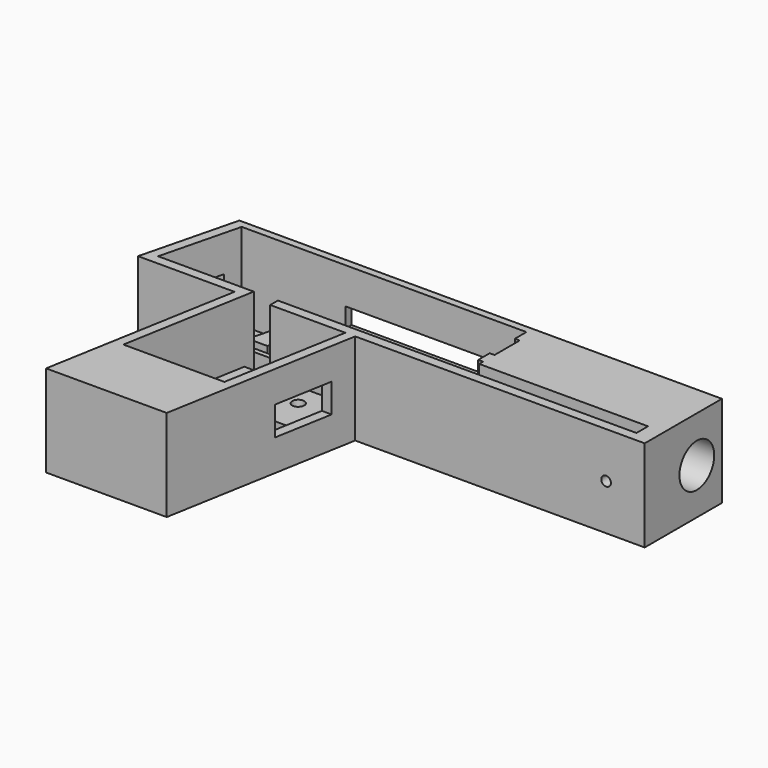
from build123d import *

# Parameters (mm, degrees)
F1_DEPTH  = 9.5
F3_DEPTH  = 18
F4_R      = 4.5
F5_DEPTH  = 40
F6_W      = 10.7216464161
F6_H      = 8
F7_DEPTH  = 2
F8_R      = 1
F9_DEPTH  = 5
F8_W      = 1
F8_H      = 3
F10_DEPTH = 18
F11_DEPTH = 18
F12_R     = 1
F13_DEPTH = 6.9
F15_DEPTH = 3
F16_R     = 1.25
F17_DEPTH = 5
F18_DEPTH = 25


with BuildPart() as f1:
    # F0 (on Top) → F1 (new body, symmetric)
    with BuildSketch(Plane.XY):
        Polygon((60.1971853051, 26.2679918303), (-39.8028146949, 26.2679918303), (-44.8028146949, 6.2679918303), (-24.8028146949, 6.2679918303), (-31.8558939232, -33.7320081697), (-6.8558939232, -33.7320081697), (0.1971853051, 6.2679918303), (60.1971853051, 6.2679918303), align=None)
    extrude(amount=F1_DEPTH, both=True)

    # F2 (on face) → F3 (cut)
    with BuildSketch(Plane.XY.offset(9.5)):
        Polygon((21.8837381179, 24.7679918303), (-38.1162618821, 24.7679918303), (-42.2412618821, 8.2679918303), (-22.4193075097, 8.2679918303), (-27.2986237894, -19.4039858791), (-6.3603302369, -19.4039858791), (-1.8336679186, 6.2679918303), (-17.4193075097, 6.2679918303), (-17.4193075097, 8.2679918303), (56.8837381179, 8.2679918303), (56.8837381179, 11.2679918303), (21.8837381179, 11.2679918303), align=None)
    extrude(amount=-F3_DEPTH, mode=Mode.SUBTRACT)

    # F4 (on face) → F5 (cut)
    with BuildSketch(Plane.YZ.offset(60.1971853051)):
        with Locations((19.7679918303, 0)):
            Circle(F4_R)
    extrude(amount=-F5_DEPTH, mode=Mode.SUBTRACT)

    # F6 (on Top) → F7 (cut, symmetric)
    with BuildSketch(Plane.XY):
        Polygon((31.0530696271, 22.4650362791), (31.0530696271, 31.3576222958), (-16.5646290837, 30.772159468), (-16.5646290837, 22.4650362791), align=None)
        with Locations((-41.1441657065, 17.2679918303)):
            Rectangle(F6_W, F6_H)
    extrude(amount=F7_DEPTH, both=True, mode=Mode.SUBTRACT)

    # F8 (on face) → F9 (join)
    with BuildSketch(Plane.XY.offset(-8.5)):
        Polygon((-41.4912618821, 11.2679918303), (21.8837381179, 11.2679918303), (21.8837381179, 12.2679918303), (20.8837381179, 12.2679918303), (-41.2412618821, 12.2679918303), align=None)
        Polygon((-17.4193075097, 6.2679918303), (-22.7719614711, 6.2679918303), (-24.8589656495, -5.5679970244), (-3.9206720971, -5.5679970244), (-1.8336679186, 6.2679918303), align=None)
        Polygon((-28.4193075097, 14.2679918303), (-24.4193075097, 14.2679918303), (-22.2943075097, 22.7679918303), (-26.2943075097, 22.7679918303), align=None)
        with Locations((-25.3568075097, 18.5179918303)):
            Circle(F8_R, mode=Mode.SUBTRACT)
    extrude(amount=F9_DEPTH)

    # F8 (on face) → F10 (join, through all)
    with BuildSketch(Plane.XY.offset(-8.5)):
        with Locations((21.3837381179, 23.2679918303)):
            Rectangle(F8_W, F8_H)
    extrude(amount=F10_DEPTH)

    # F8 (on face) → F11 (join, through all)
    with BuildSketch(Plane.XY.offset(-8.5)):
        with Locations((21.3837381179, 13.7679918303)):
            Rectangle(F8_W, F8_H)
    extrude(amount=F11_DEPTH)

    # F12 (on face) → F13 (cut)
    with BuildSketch(Plane.XZ.offset(-6.2679918303)):
        with Locations((52.1971853051, 0)):
            Circle(F12_R)
    extrude(amount=-F13_DEPTH, mode=Mode.SUBTRACT)

    # F14 (on Top) → F15 (cut, symmetric)
    with BuildSketch(Plane.XY):
        Polygon((7.0393216934, 1.2679918303), (-9.7211528242, 1.2679918303), (-8.9475925263, -10.7320081697), (7.0393216934, -10.7320081697), align=None)
    extrude(amount=F15_DEPTH, both=True, mode=Mode.SUBTRACT)

    # F16 (on face) → F17 (cut)
    with BuildSketch(Plane.XY.offset(-8.5)):
        with Locations((-7.9571865499, 1.7126952298)):
            Circle(F16_R)
    extrude(amount=-F17_DEPTH, mode=Mode.SUBTRACT)

    # F18 (cut): a face of the model
    f18_faces = [f1.faces().sort_by_distance(p)[0] for p in [
        (-7.9571865499, 1.7126952298, -8.5),
    ]]
    extrude(f18_faces, amount=-F18_DEPTH, mode=Mode.SUBTRACT)


solid = f1.part
